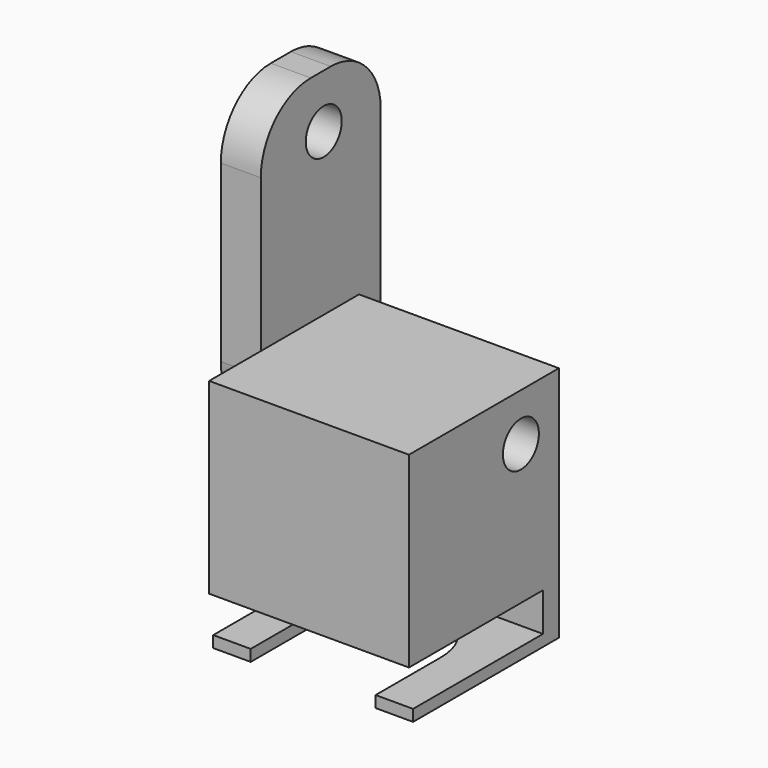
from build123d import *

# Parameters (mm, degrees)
F0_W      = 16
F0_H      = 15
F1_DEPTH  = 15
F2_R      = 1.8
F3_DEPTH  = 25
F4_W      = 12
F4_H      = 24
F4_R      = 1.8
F5_DEPTH  = 3.2
F6_R      = 5
F7_W      = 16
F7_H      = 1.589112
F8_DEPTH  = 4
F9_W      = 16
F9_H      = 0.918874
F10_DEPTH = 13
F12_DEPTH = 2


with BuildPart() as f1:
    # F0 (on Front) → F1 (new body)
    with BuildSketch(Plane.XZ):
        with Locations((8, 7.5)):
            Rectangle(F0_W, F0_H)
    extrude(amount=F1_DEPTH)

    # F2 (on face) → F3 (cut)
    with BuildSketch(Plane(origin=(0, 0, 0), x_dir=(0, -1, 0), z_dir=(-1, 0, 0))):
        with Locations((3.8, 11.2)):
            Circle(F2_R)
    extrude(amount=-F3_DEPTH, mode=Mode.SUBTRACT)

    # F7 (on face) → F8 (join)
    with BuildSketch(Plane(origin=(0, 0, 0), x_dir=(1, 0, 0), z_dir=(0, 0, -1))):
        with Locations((8, 0.794556)):
            Rectangle(F7_W, F7_H)
    extrude(amount=F8_DEPTH)

    # F9 (on face) → F10 (join)
    with BuildSketch(Plane.XZ.offset(1.589112)):
        with Locations((8, -3.540563)):
            Rectangle(F9_W, F9_H)
    extrude(amount=F10_DEPTH)

    # F11 (on face) → F12 (cut)
    with BuildSketch(Plane(origin=(0, 0, -4), x_dir=(1, 0, 0), z_dir=(0, 0, -1))):
        with BuildLine():
            Line((13, 14.589112), (3, 14.589112))
            Line((3, 14.589112), (3, 8.058546))
            ThreePointArc((3, 8.058546), (8, 3.058546), (13, 8.058546))
            Line((13, 8.058546), (13, 14.589112))
        make_face()
    extrude(amount=-F12_DEPTH, mode=Mode.SUBTRACT)


with BuildPart() as f5:
    # F4 (on face) → F5 (new body)
    with BuildSketch(Plane(origin=(0, 0, 0), x_dir=(0, -1, 0), z_dir=(-1, 0, 0))):
        with Locations((3.829613, 20.216454)):
            Rectangle(F4_W, F4_H)
        with Locations((3.529613, 11.916554)):
            Circle(F4_R, mode=Mode.SUBTRACT)
        with Locations((3.529613, 27.916454)):
            Circle(F4_R, mode=Mode.SUBTRACT)
    extrude(amount=F5_DEPTH)

    # F6
    f6_edges = [f5.edges().sort_by_distance(p)[0] for p in [
        (-1.6, 2.170387, 32.216454),
        (-1.6, -9.829613, 32.216454),
        (-1.6, -9.829613, 8.216454),
        (-1.6, 2.170387, 8.216454),
    ]]
    fillet(f6_edges, radius=F6_R)


solid = Compound([f1.part, f5.part])
